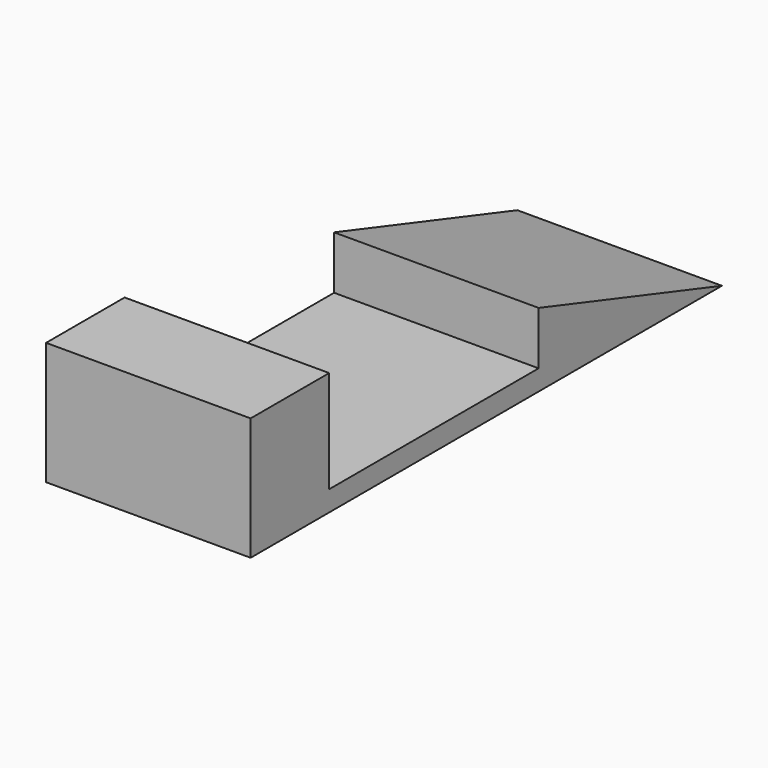
from build123d import *

# Parameters (mm, degrees)
F0_W     = 31.75
F0_H     = 40.64
F1_DEPTH = 3.175
F0_H_2   = 15.24
F2_DEPTH = 19.05
F0_H_3   = 35.56
F3_DEPTH = 11.43
F5_DEPTH = 31.75


with BuildPart() as f1:
    # F0 (on Top) → F1 (new body)
    with BuildSketch(Plane.XY):
        with Locations((-15.875, 35.56)):
            Rectangle(F0_W, F0_H)
    extrude(amount=F1_DEPTH)

    # F0 (on Top) → F2 (join)
    with BuildSketch(Plane.XY):
        with Locations((-15.875, 7.62)):
            Rectangle(F0_W, F0_H_2)
    extrude(amount=F2_DEPTH)

    # F0 (on Top) → F3 (join)
    with BuildSketch(Plane.XY):
        with Locations((-15.875, 73.66)):
            Rectangle(F0_W, F0_H_3)
    extrude(amount=F3_DEPTH)

    # F4 (on face) → F5 (cut, through all)
    with BuildSketch(Plane.YZ):
        Polygon((91.44, 11.43), (55.88, 11.43), (91.44, 0), align=None)
    extrude(amount=-F5_DEPTH, mode=Mode.SUBTRACT)


solid = f1.part
